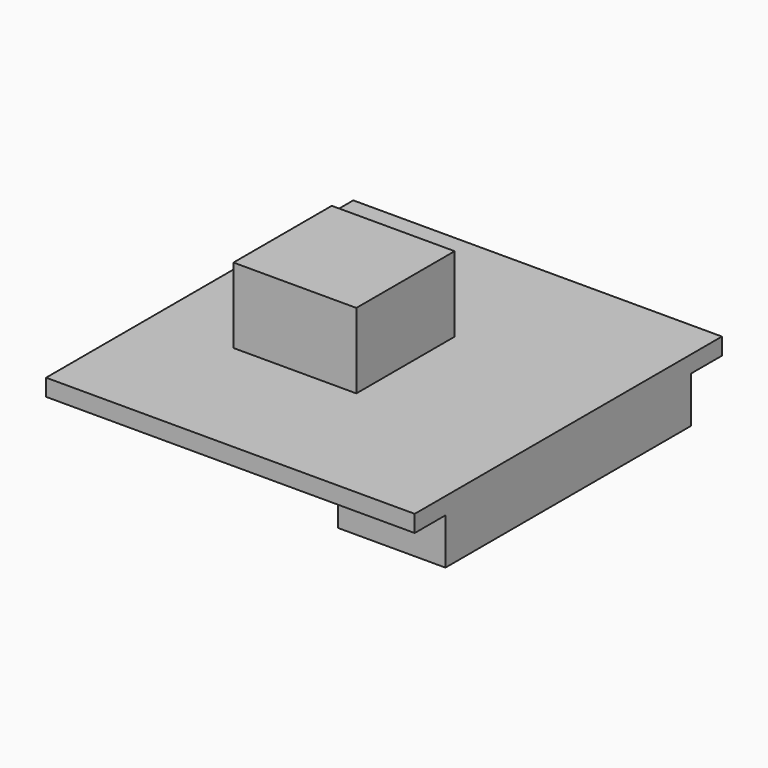
from build123d import *

# Parameters (mm, degrees)
F0_W     = 8
F0_H     = 8
F0_W_2   = 7
F0_H_2   = 20
F1_DEPTH = 1.1
F2_DEPTH = 6
F3_DEPTH = 3


with BuildPart() as f1:
    # F0 (on Top) → F1 (new body)
    with BuildSketch(Plane.XY):
        Polygon((12, 12.5), (-12, 12.5), (-12, -12.5), (12, -12.5), (12, -10), (5, -10), (5, 10), (12, 10), align=None)
        with Locations((-2.6, 0)):
            Rectangle(F0_W, F0_H, mode=Mode.SUBTRACT)
        with Locations((-2.6, 0)):
            Rectangle(F0_W, F0_H)
        with Locations((8.5, 0)):
            Rectangle(F0_W_2, F0_H_2)
    extrude(amount=F1_DEPTH)

    # F0 (on Top) → F2 (join)
    with BuildSketch(Plane.XY):
        with Locations((-2.6, 0)):
            Rectangle(F0_W, F0_H)
    extrude(amount=F2_DEPTH)

    # F0 (on Top) → F3 (join)
    with BuildSketch(Plane.XY):
        with Locations((8.5, 0)):
            Rectangle(F0_W_2, F0_H_2)
    extrude(amount=-F3_DEPTH)


solid = f1.part
